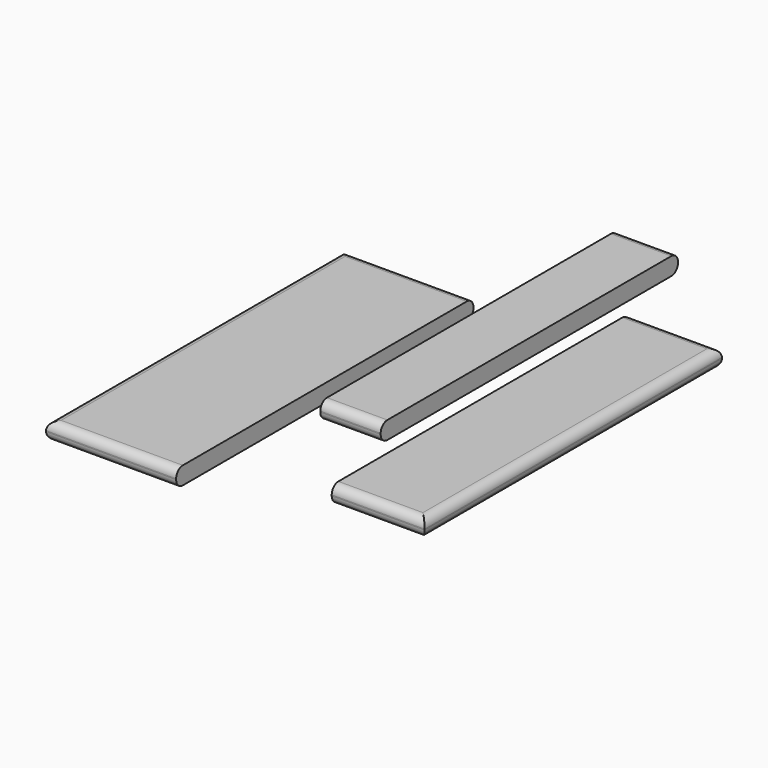
from build123d import *

# Parameters (mm, degrees)
F0_W     = 140
F0_H     = 400
F3_DEPTH = 19
F1_W     = 65
F1_H     = 400
F4_DEPTH = 19
F2_W     = 100
F2_H     = 400
F5_DEPTH = 19
F6_R     = 9
F7_R     = 9
F8_R     = 9


with BuildPart() as f3:
    # F0 (on Top) → F3 (new body)
    with BuildSketch(Plane.XY):
        with Locations((-12.906995, 9.602098)):
            Rectangle(F0_W, F0_H)
    extrude(amount=F3_DEPTH)

    # F6
    f6_edges = [f3.edges().sort_by_distance(p)[0] for p in [
        (-12.906995, -190.397902, 19),
        (-82.906995, 9.602098, 19),
        (-12.906995, 209.602098, 19),
        (-12.906995, -190.397902, 0),
        (-82.906995, 9.602098, 0),
        (-12.906995, 209.602098, 0),
    ]]
    fillet(f6_edges, radius=F6_R)


with BuildPart() as f4:
    # F1 (on Top) → F4 (new body)
    with BuildSketch(Plane.XY):
        with Locations((107.279327, 181.439504)):
            Rectangle(F1_W, F1_H)
    extrude(amount=F4_DEPTH)

    # F7
    f7_edges = [f4.edges().sort_by_distance(p)[0] for p in [
        (107.279327, 381.439504, 19),
        (107.279327, 381.439504, 0),
        (107.279327, -18.560496, 19),
        (107.279327, -18.560496, 0),
    ]]
    fillet(f7_edges, radius=F7_R)


with BuildPart() as f5:
    # F2 (on Top) → F5 (new body)
    with BuildSketch(Plane.XY):
        with Locations((227.501377, 68.412898)):
            Rectangle(F2_W, F2_H)
    extrude(amount=F5_DEPTH)

    # F8
    f8_edges = [f5.edges().sort_by_distance(p)[0] for p in [
        (227.501377, -131.587102, 19),
        (227.501377, -131.587102, 0),
        (277.501377, 68.412898, 19),
        (277.501377, 68.412898, 0),
        (227.501377, 268.412898, 19),
        (227.501377, 268.412898, 0),
    ]]
    fillet(f8_edges, radius=F8_R)


solid = Compound([f3.part, f4.part, f5.part])
